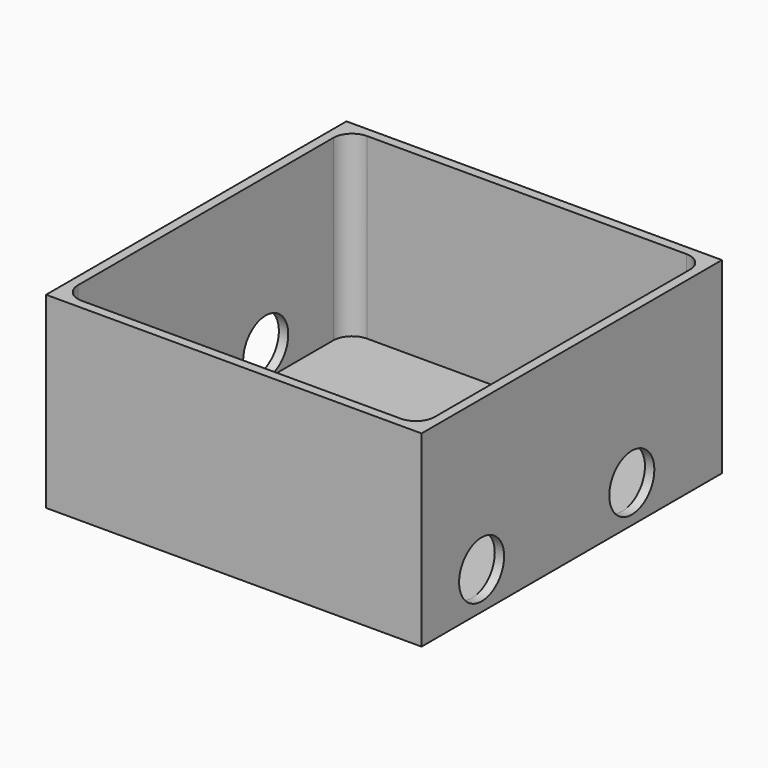
from build123d import *

# Parameters (mm, degrees)
F0_W     = 100
F0_H     = 100
F1_DEPTH = 50
F2_T     = -2.5
F3_R     = 5
F4_R     = 7.5
F5_DEPTH = 100.001


with BuildPart() as f1:
    # F0 (on Top) → F1 (new body)
    with BuildSketch(Plane.XY):
        Rectangle(F0_W, F0_H)
    extrude(amount=F1_DEPTH)

    # F2
    f2_openings = [f1.faces().sort_by_distance(p)[0] for p in [
        (0, 0, 50),
    ]]
    offset(amount=F2_T, openings=f2_openings)

    # F3
    f3_edges = [f1.edges().sort_by_distance(p)[0] for p in [
        (-47.5, 47.5, 26.25),
        (47.5, 47.5, 26.25),
        (-47.5, -47.5, 26.25),
        (47.5, -47.5, 26.25),
    ]]
    fillet(f3_edges, radius=F3_R)

    # F4 (on face) → F5 (cut, through all)
    with BuildSketch(Plane.YZ.offset(50)):
        with Locations((-30, 10)):
            Circle(F4_R)
        with Locations((20, 10)):
            Circle(F4_R)
    extrude(amount=-F5_DEPTH, mode=Mode.SUBTRACT)


solid = f1.part
